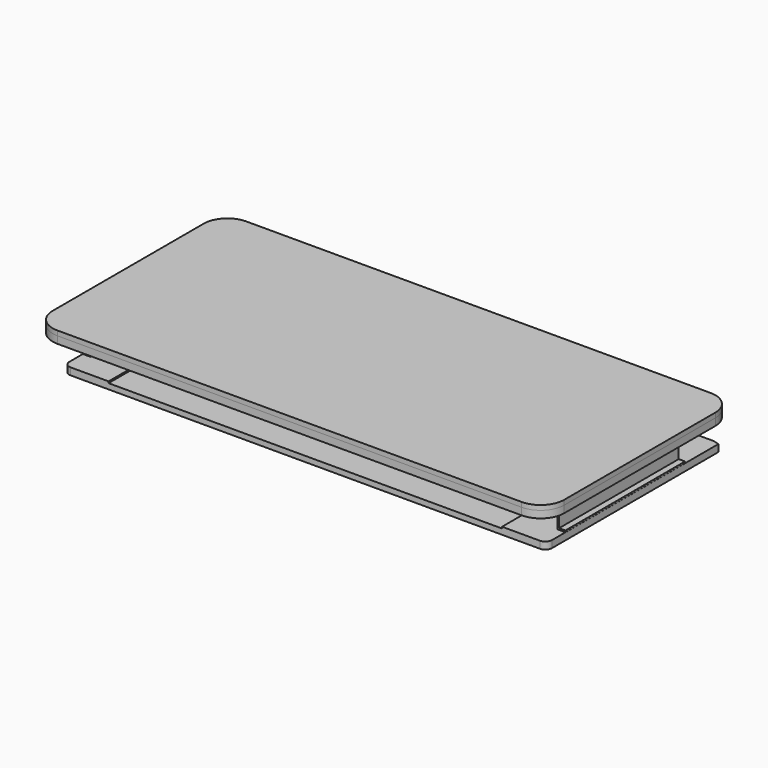
from build123d import *

# Parameters (mm, degrees)
F1_DEPTH  = 12
F3_DEPTH  = 18
F4_W      = 1240
F4_H      = 480
F5_DEPTH  = 6
F6_R      = 20
F9_DEPTH  = 380
F12_DEPTH = 18
F13_W     = 1000
F13_H     = 450
F14_DEPTH = 4


with BuildPart() as f1:
    # F0 (on Top) → F1 (new body)
    with BuildSketch(Plane.XY):
        with BuildLine():
            ThreePointArc((-650, 60), (-632.4264068712, 17.5735931288), (-590, 0))
            Line((-590, 0), (590, 0))
            ThreePointArc((590, 0), (632.4264068712, 17.5735931288), (650, 60))
            Line((650, 60), (650, 540))
            ThreePointArc((650, 540), (632.4264068712, 582.4264068712), (590, 600))
            Line((590, 600), (-590, 600))
            ThreePointArc((-590, 600), (-632.4264068712, 582.4264068712), (-650, 540))
            Line((-650, 540), (-650, 60))
        make_face()
    extrude(amount=F1_DEPTH)


with BuildPart() as f3:
    # F2 (on face) → F3 (new body)
    with BuildSketch(Plane(origin=(0, 0, 0), x_dir=(1, 0, 0), z_dir=(0, 0, -1))):
        with BuildLine():
            ThreePointArc((-650, -540), (-632.4264068712, -582.4264068712), (-590, -600))
            Line((-590, -600), (590, -600))
            ThreePointArc((590, -600), (632.4264068712, -582.4264068712), (650, -540))
            Line((650, -540), (650, -60))
            ThreePointArc((650, -60), (632.4264068712, -17.5735931288), (590, 0))
            Line((590, 0), (-590, 0))
            ThreePointArc((-590, 0), (-632.4264068712, -17.5735931288), (-650, -60))
            Line((-650, -60), (-650, -540))
        make_face()
    extrude(amount=F3_DEPTH)

    # F4 (on face) → F5 (cut)
    with BuildSketch(Plane(origin=(0, 0, -18), x_dir=(1, 0, 0), z_dir=(0, 0, -1))):
        with Locations((0, -260)):
            Rectangle(F4_W, F4_H)
    extrude(amount=-F5_DEPTH, mode=Mode.SUBTRACT)

    # F6
    f6_edges = [f3.edges().sort_by_distance(p)[0] for p in [
        (-620, 20, -15),
        (620, 20, -15),
    ]]
    fillet(f6_edges, radius=F6_R)



with BuildPart() as f9:
    # F8 (on offset) → F9 (new body)
    with BuildSketch(Plane.XZ.offset(-110)):
        Polygon((-613, -12), (-613, -16), (-597, -16), (-597, -89), (-613, -89), (-613, -93), (-593, -93), (-593, -12), align=None)
    extrude(amount=-F9_DEPTH)


with BuildPart() as f3_1:
    add(f3.part)

    add(f9.part)  # F10 merges F9
    # F10: F9 across plane
    add(f9.part.mirror(Plane.YZ))


with BuildPart() as f12:
    # F11 (on face) → F12 (new body)
    with BuildSketch(Plane(origin=(0, 0, -93), x_dir=(1, 0, 0), z_dir=(0, 0, -1))):
        with BuildLine():
            Line((596.25, -50), (-596.25, -50))
            ThreePointArc((-596.25, -50), (-608.2708152802, -54.9791847198), (-613.25, -67))
            Line((-613.25, -67), (-613.25, -595.41660401))
            ThreePointArc((-613.25, -595.41660401), (-601.97611955, -598.8429955075), (-590.25, -600))
            Line((-590.25, -600), (590.25, -600))
            ThreePointArc((590.25, -600), (601.97611955, -598.8429955075), (613.25, -595.41660401))
            Line((613.25, -595.41660401), (613.25, -67))
            ThreePointArc((613.25, -67), (608.2708152802, -54.9791847198), (596.25, -50))
        make_face()
    extrude(amount=F12_DEPTH)

    # F13 (on face) → F14 (cut)
    with BuildSketch(Plane.XY.offset(-93)):
        with Locations((0, 275)):
            Rectangle(F13_W, F13_H)
    extrude(amount=-F14_DEPTH, mode=Mode.SUBTRACT)


solid = Compound([f1.part, f3_1.part, f12.part])
